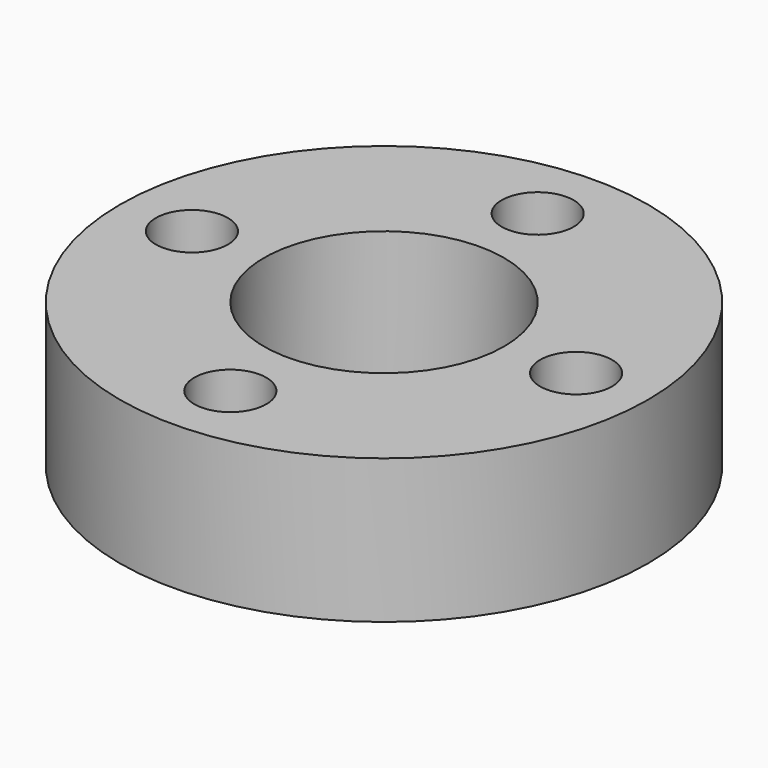
from build123d import *

# Parameters (mm, degrees)
SKETCH_R   = 11
SKETCH_R_2 = 1.5
SKETCH_R_3 = 5
PAD_DEPTH  = 6


with BuildPart() as part:
    # Sketch → Pad (new body)
    with BuildSketch(Plane.XY):
        Circle(SKETCH_R)
        with Locations((0, 8)):
            Circle(SKETCH_R_2, mode=Mode.SUBTRACT)
        with Locations((-8, 0)):
            Circle(SKETCH_R_2, mode=Mode.SUBTRACT)
        with Locations((0, -8)):
            Circle(SKETCH_R_2, mode=Mode.SUBTRACT)
        with Locations((8, 0)):
            Circle(SKETCH_R_2, mode=Mode.SUBTRACT)
        Circle(SKETCH_R_3, mode=Mode.SUBTRACT)
    extrude(amount=PAD_DEPTH)


solid = part.part
